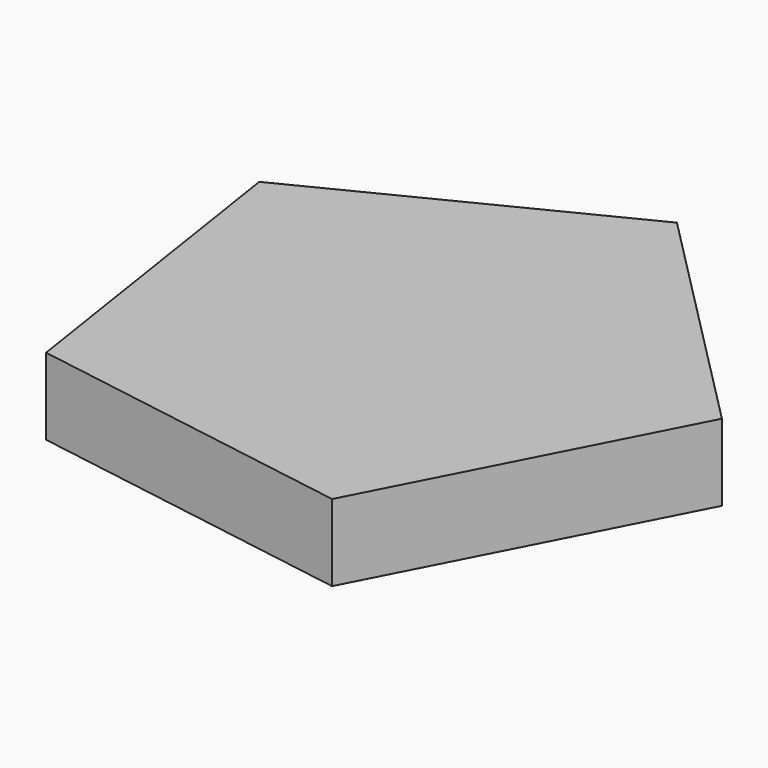
from build123d import *

# Parameters (mm, degrees)
F2_DEPTH = 25.4


with BuildPart() as f2:
    # F1 (on face) → F2 (new body)
    with BuildSketch(Plane.XY):
        Polygon((42.209431, -83.886244), (92.823991, 14.22128), (15.15895, 92.675478), (-83.455245, 43.055316), (-66.737128, -66.06583), align=None)
    extrude(amount=F2_DEPTH)


solid = f2.part
